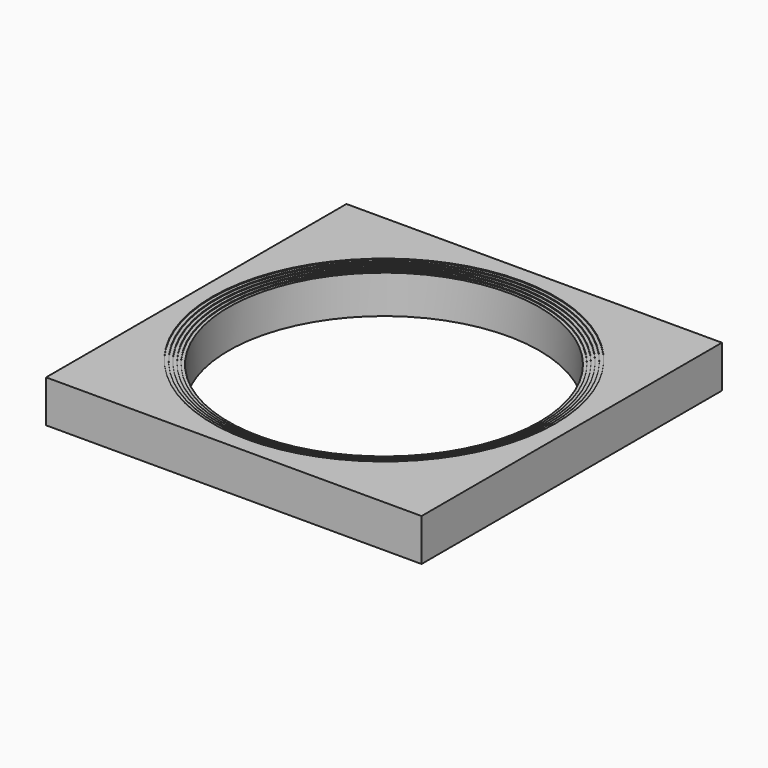
from build123d import *

# Parameters (mm, degrees)
F0_W     = 7.112
F0_H     = 7.112
F0_R     = 3.25
F1_DEPTH = 0.8
F2_SCALE = 1.02
F3_SCALE = 1.02
F4_SCALE = 1.02
F5_SCALE = 1.02
F6_SCALE = 1.02


with BuildPart() as f1:
    # F0 (on Top) → F1 (new body)
    with BuildSketch(Plane.XY):
        Rectangle(F0_W, F0_H)
        Circle(F0_R, mode=Mode.SUBTRACT)
    extrude(amount=F1_DEPTH)


with BuildPart() as f2_1:
    # F2: copy of F1
    add(f1.part.scale(F2_SCALE))


with BuildPart() as f3_1:
    # F3: copy of F2_1
    add(f2_1.part.scale(F3_SCALE))


with BuildPart() as f4_1:
    # F4: copy of F3_1
    add(f3_1.part.scale(F4_SCALE))


with BuildPart() as f5_1:
    # F5: copy of F4_1
    add(f4_1.part.scale(F5_SCALE))


with BuildPart() as f6_1:
    # F6: copy of F5_1
    add(f5_1.part.scale(F6_SCALE))


solid = Compound([f1.part, f2_1.part, f3_1.part, f4_1.part, f5_1.part, f6_1.part])
